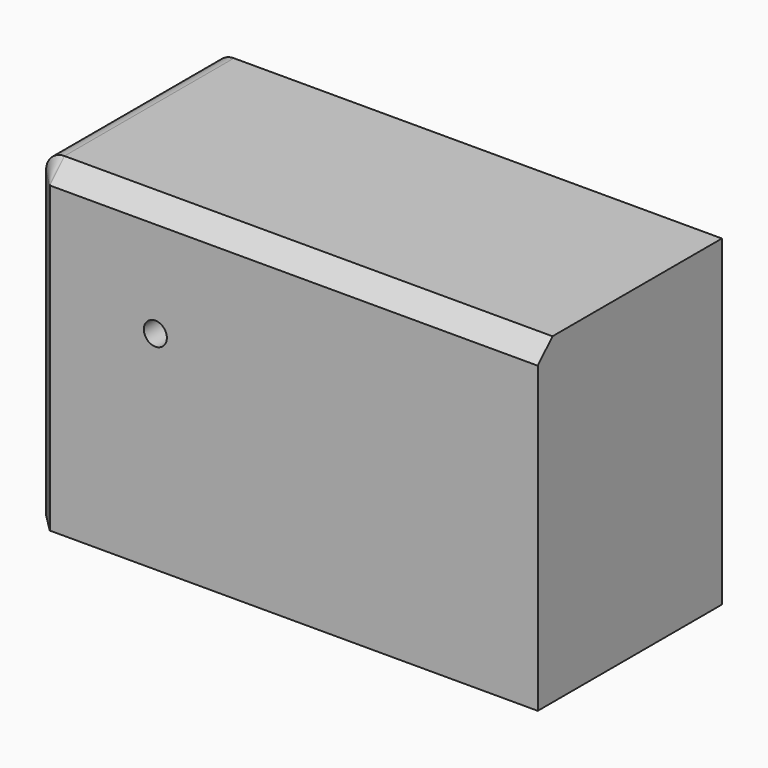
from build123d import *

# Parameters (mm, degrees)
F0_W     = 139.7
F0_H     = 88.9
F1_DEPTH = 63.5
F2_R     = 5.08
F3_SIZE  = 5.08
F5_D     = 6.35


with BuildPart() as f1:
    # F0 (on Front) → F1 (new body)
    with BuildSketch(Plane.XZ):
        with Locations((3.030682, -3.028804)):
            Rectangle(F0_W, F0_H)
    extrude(amount=F1_DEPTH)

    # F2
    f2_edges = [f1.edges().sort_by_distance(p)[0] for p in [
        (-66.819318, -31.75, 41.421196),
    ]]
    fillet(f2_edges, radius=F2_R)

    # F3
    f3_edges = [f1.edges().sort_by_distance(p)[0] for p in [
        (5.570682, -63.5, 41.421196),
    ]]
    chamfer(f3_edges, length=F3_SIZE)

    # F5 (through all)
    with Locations(Plane.XZ.offset(63.5)):
        with Locations((-32.609526, 9.822191)):
            Hole(F5_D / 2)


solid = f1.part
